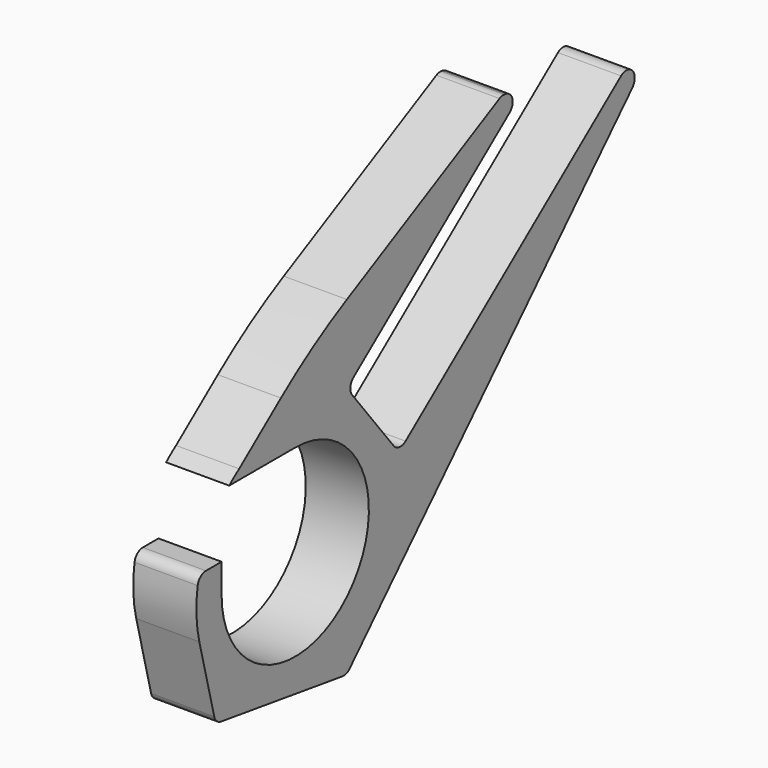
from build123d import *

# Parameters (mm, degrees)
F1_DEPTH = 6


with BuildPart() as f1:
    # F0 (on Right) → F1 (new body)
    with BuildSketch(Plane.YZ):
        with BuildLine():
            ThreePointArc((0, 8.75), (6.187184, -6.187184), (-8.75, 0))
            Line((-8.75, 0), (-8.75, 2.75))
            Line((-8.75, 2.75), (-10.606602, 2.75))
            ThreePointArc((-10.606602, 2.75), (-11.253598, 2.512493), (-11.593262, 1.912791))
            ThreePointArc((-11.593262, 1.912791), (-11.739513, -0.496329), (-11.39044, -2.884507))
            Line((-11.39044, -2.884507), (-9.624207, -9.859066))
            ThreePointArc((-9.624207, -9.859066), (-9.323883, -10.35677), (-8.797476, -10.603346))
            Line((-8.797476, -10.603346), (-1.676351, -11.629804))
            Line((-1.676351, -11.629804), (5.599694, -12.678593))
            ThreePointArc((5.599694, -12.678593), (6.067344, -12.634542), (6.463292, -12.38183))
            Line((6.463292, -12.38183), (16.489511, -1.951659))
            Line((16.489511, -1.951659), (40.04656, 22.554495))
            ThreePointArc((40.04656, 22.554495), (40.229484, 22.81966), (40.318611, 23.129224))
            Line((40.318611, 23.129224), (40.327941, 23.207551))
            ThreePointArc((40.327941, 23.207551), (39.824234, 24.197961), (38.716454, 24.11161))
            Line((38.716454, 24.11161), (13.11122, 3.95707))
            ThreePointArc((13.11122, 3.95707), (12.374434, 3.749868), (11.706934, 4.124342))
            Line((11.706934, 4.124342), (9.232906, 7.267458))
            Line((9.232906, 7.267458), (6.758877, 10.410575))
            ThreePointArc((6.758877, 10.410575), (6.551676, 11.147362), (6.926149, 11.814862))
            Line((6.926149, 11.814862), (25.45937, 26.402838))
            ThreePointArc((25.45937, 26.402838), (25.803521, 27.459339), (24.959142, 28.181598))
            Line((24.959142, 28.181598), (24.854219, 28.194096))
            ThreePointArc((24.854219, 28.194096), (24.556198, 28.184829), (24.274156, 28.088108))
            Line((24.274156, 28.088108), (6.135427, 18.644765))
            ThreePointArc((6.135427, 18.644765), (2.099072, 16.297577), (-1.700732, 13.584103))
            Line((-1.700732, 13.584103), (-6.66306, 9.678126))
            Line((-6.66306, 9.678126), (-7.842194, 8.75))
            Line((-7.842194, 8.75), (0, 8.75))
        make_face()
        with BuildLine():
            ThreePointArc((-6.66306, 9.678126), (-7.267458, 9.232906), (-7.842194, 8.75))
            Line((-7.842194, 8.75), (-6.66306, 9.678126))
        make_face()
    extrude(amount=F1_DEPTH)


solid = f1.part
